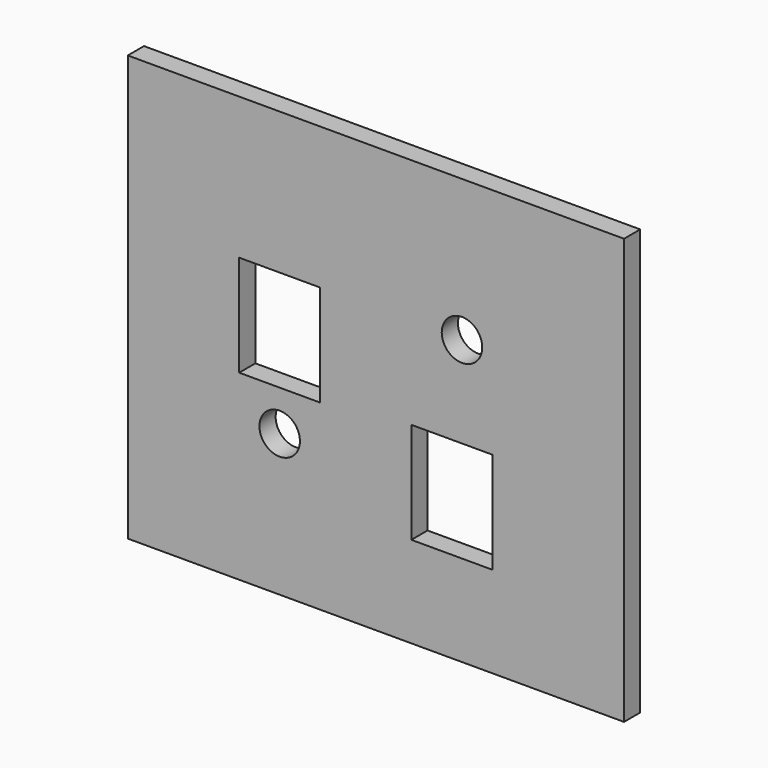
from build123d import *

# Parameters (mm, degrees)
F0_W     = 77.7875
F0_H     = 66.675
F1_DEPTH = 3.175
F3_D     = 6.35
F5_D     = 6.35
F6_W     = 12.7
F6_H     = 15.875
F7_DEPTH = 3.176


with BuildPart() as f1:
    # F0 (on Front) → F1 (new body)
    with BuildSketch(Plane.XZ):
        Rectangle(F0_W, F0_H)
    extrude(amount=F1_DEPTH)

    # F3 (through all)
    with Locations(Plane.XZ.offset(3.175)):
        with Locations((-15.08125, -11.1125)):
            Hole(F3_D / 2)

    # F5 (through all)
    with Locations(Plane.XZ.offset(3.175)):
        with Locations((13.49375, 11.1125)):
            Hole(F5_D / 2)

    # F6 (on face) → F7 (cut, through all)
    with BuildSketch(Plane.XZ.offset(3.175)):
        with Locations((-15.08125, 3.175)):
            Rectangle(F6_W, F6_H)
        with Locations((11.90625, -11.1125)):
            Rectangle(F6_W, F6_H)
    extrude(amount=-F7_DEPTH, mode=Mode.SUBTRACT)


solid = f1.part
